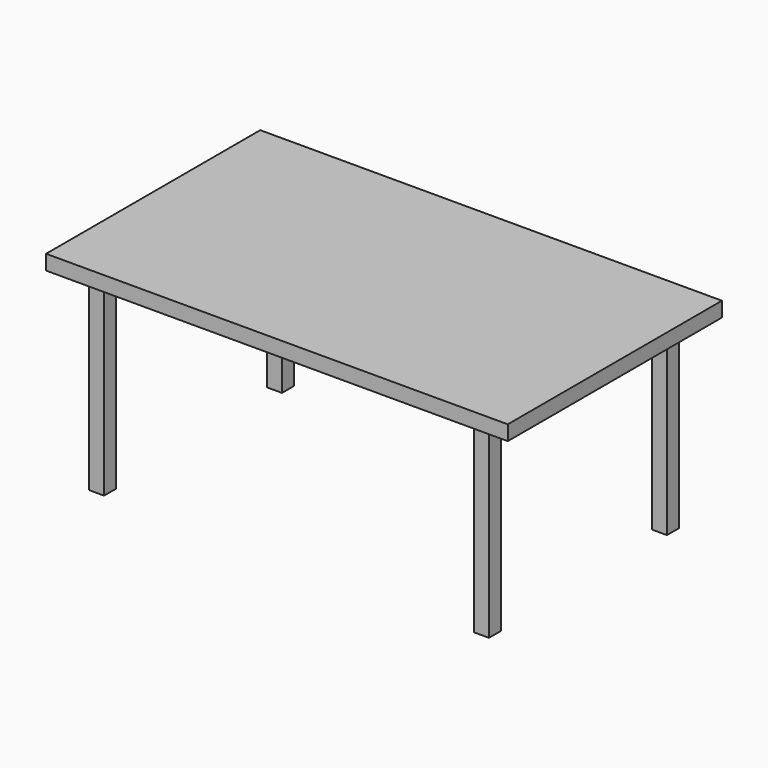
from build123d import *

# Parameters (mm, degrees)
F0_W     = 1524
F0_H     = 914.4
F1_DEPTH = 50.8
F2_W     = 50.8
F2_H     = 50.8
F3_DEPTH = 698.5


with BuildPart() as f1:
    # F0 (on Top) → F1 (new body)
    with BuildSketch(Plane.XY):
        with Locations((27.529123, 0.555292)):
            Rectangle(F0_W, F0_H)
    extrude(amount=F1_DEPTH)

    # F2 (on face) → F3 (join)
    with BuildSketch(Plane.XY.offset(50.8)):
        with Locations((-658.270877, -380.444708)):
            Rectangle(F2_W, F2_H)
    extrude(amount=-F3_DEPTH)

    # F4: F1 across plane


with BuildPart() as f1_1:
    add(f1.part)
    add(f1.part.mirror(Plane.XZ))

    # F5: F1 across plane


with BuildPart() as f1_2:
    add(f1_1.part)
    add(f1_1.part.mirror(Plane.YZ))


solid = f1_2.part
